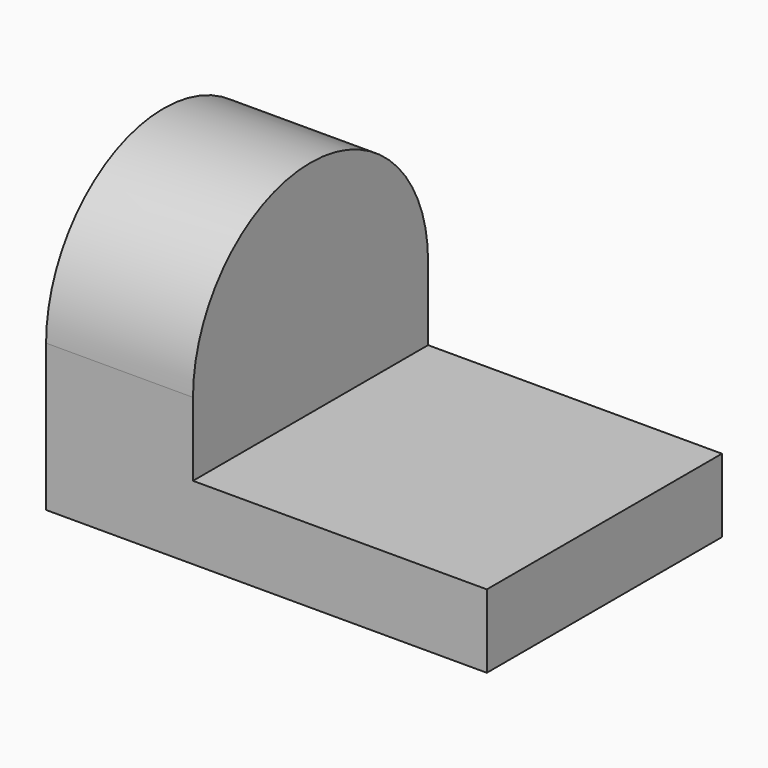
from build123d import *

# Parameters (mm, degrees)
F1_DEPTH = 12.7
F2_W     = 25.4
F2_H     = 6.35
F3_DEPTH = 25.4


with BuildPart() as f1:
    # F0 (on Right) → F1 (new body)
    with BuildSketch(Plane.YZ):
        with BuildLine():
            Line((0, 12.7), (0, 0))
            Line((0, 0), (25.4, 0))
            Line((25.4, 0), (25.4, 12.7))
            ThreePointArc((25.4, 12.7), (12.7, 25.4), (0, 12.7))
        make_face()
    extrude(amount=F1_DEPTH)

    # F2 (on face) → F3 (join)
    with BuildSketch(Plane.YZ.offset(12.7)):
        with Locations((12.7, 3.175)):
            Rectangle(F2_W, F2_H)
    extrude(amount=F3_DEPTH)


solid = f1.part
